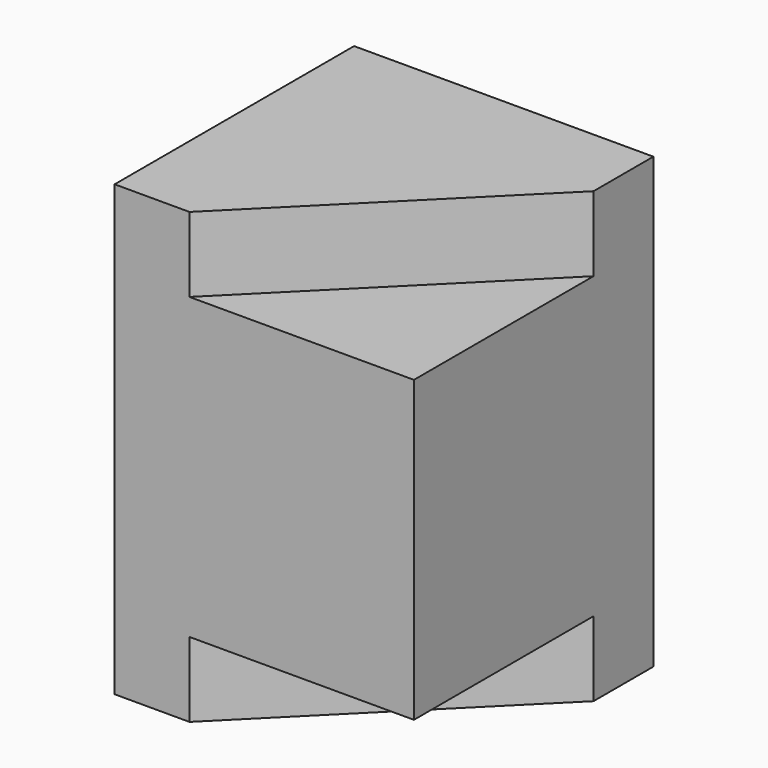
from build123d import *

# Parameters (mm, degrees)
F0_W      = 101.6
F0_H      = 101.6
F1_DEPTH  = 101.6
F3_W      = 101.6
F3_H      = 25.4
F4_DEPTH  = 25.4
F5_W      = 25.4
F5_H      = 76.2
F6_DEPTH  = 25.4
F8_DEPTH  = 25.4
F10_DEPTH = 25.4


with BuildPart() as f1:
    # F0 (on Top) → F1 (new body)
    with BuildSketch(Plane.XY):
        with Locations((50.8, -50.8)):
            Rectangle(F0_W, F0_H)
    extrude(amount=F1_DEPTH)

    # F3 (on face) → F4 (join)
    with BuildSketch(Plane.XY.offset(101.6)):
        with Locations((50.8, -12.7)):
            Rectangle(F3_W, F3_H)
    extrude(amount=F4_DEPTH)

    # F5 (on face) → F6 (join)
    with BuildSketch(Plane.XY.offset(101.6)):
        with Locations((12.7, -63.207563)):
            Rectangle(F5_W, F5_H)
    extrude(amount=F6_DEPTH)

    # F7 (on face) → F8 (join)
    with BuildSketch(Plane.XY.offset(101.6)):
        Polygon((101.6, 0), (0, 0), (0, -101.6), (25.4, -101.6), (25.4, -25.4), (101.6, -25.4), align=None)
        Polygon((25.4, -101.6), (101.6, -25.4), (25.4, -25.4), align=None)
    extrude(amount=F8_DEPTH)

    # F9 (on face) → F10 (join)
    with BuildSketch(Plane(origin=(0, 0, 0), x_dir=(1, 0, 0), z_dir=(0, 0, -1))):
        Polygon((0, 101.6), (0, 0), (101.6, 0), (101.6, 25.4), (25.4, 101.6), align=None)
    extrude(amount=F10_DEPTH)


solid = f1.part
